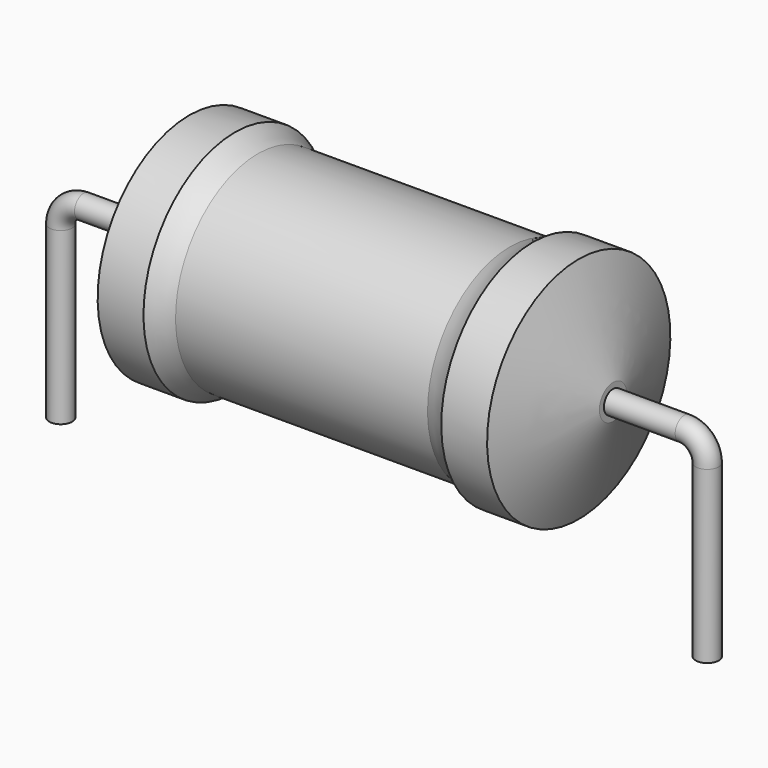
from build123d import *

# Parameters (mm, degrees)
SKETCH_R = 0.45


with BuildPart() as revolution:
    # Sketch002 → Revolution (revolve)
    with BuildSketch(Plane.XZ):
        with BuildLine():
            Line((5.05, 9.1), (6.85, 9.1))
            ThreePointArc((6.85, 9.1), (7.281378, 8.837757), (7.75, 8.65))
            Line((7.75, 8.65), (17.65, 8.65))
            ThreePointArc((17.65, 8.65), (18.118622, 8.837757), (18.55, 9.1))
            Line((18.55, 9.1), (20.35, 9.1))
            ThreePointArc((21.7, 5.275), (21.04058, 7.192999), (20.35, 9.1))
            Line((21.7, 4.6), (21.7, 5.275))
            Line((3.7, 4.6), (21.7, 4.6))
            Line((3.7, 4.6), (3.7, 5.275))
            ThreePointArc((5.05, 9.1), (4.35942, 7.192999), (3.7, 5.275))
        make_face()
    revolve(axis=Axis((3.7, 0, 4.6), (1, 0, 0)))


with BuildPart() as sweep_body:
    # Sweep: sweep along a path in Sketch001
    with BuildLine(Plane.XZ) as sweep_path:
        Line((0, -3), (0, 3.7))
        ThreePointArc((0, 3.7), (0.2636, 4.336392), (0.899988, 4.6))
        Line((0.899988, 4.6), (24.5, 4.6))
        ThreePointArc((24.5, 4.6), (25.136396, 4.336396), (25.4, 3.7))
        Line((25.4, 3.7), (25.4, -3))
    # Sketch → Sweep (sweep)
    with BuildSketch(Plane.XY.offset(-2)):
        Circle(SKETCH_R)
    sweep(path=sweep_path.line)


solid = Compound([revolution.part, sweep_body.part])
